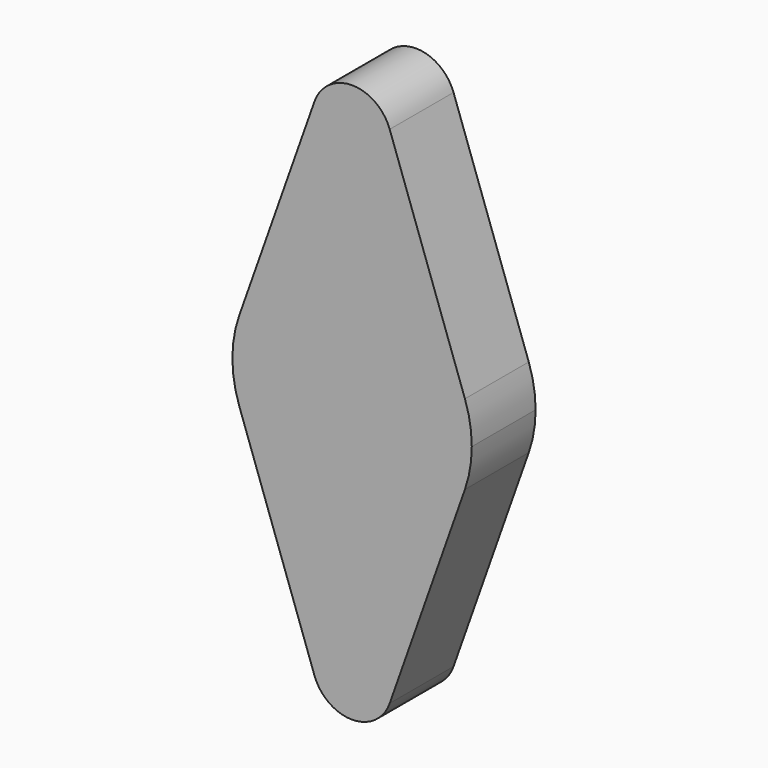
from build123d import *

# Parameters (mm, degrees)
F1_DEPTH = 20
F2_R     = 10
F3_DEPTH = 20


with BuildPart() as f1:
    # F0 (on Front) → F1 (new body)
    with BuildSketch(Plane.XZ):
        with BuildLine():
            ThreePointArc((28.284271, -10), (29.567957, -5.073059), (30, 0))
            ThreePointArc((30, 0), (29.567957, 5.073059), (28.284271, 10))
            ThreePointArc((28.284271, 10), (0, 30), (-28.284271, 10))
            ThreePointArc((-28.284271, 10), (-30, 0), (-28.284271, -10))
            ThreePointArc((-28.284271, -10), (0, -30), (28.284271, -10))
        make_face()
        with BuildLine():
            ThreePointArc((-28.284271, 10), (0, 30), (28.284271, 10))
            Line((28.284271, 10), (9.42809, 63.333333))
            ThreePointArc((9.42809, 63.333333), (9.855986, 61.69102), (10, 60))
            ThreePointArc((10, 60), (-1.69102, 50.144014), (-9.42809, 63.333333))
            Line((-9.42809, 63.333333), (-28.284271, 10))
        make_face()
        with BuildLine():
            Line((9.42809, -63.333333), (28.284271, -10))
            ThreePointArc((28.284271, -10), (0, -30), (-28.284271, -10))
            Line((-28.284271, -10), (-9.42809, -63.333333))
            ThreePointArc((-9.42809, -63.333333), (-1.69102, -50.144014), (10, -60))
            ThreePointArc((10, -60), (9.855986, -61.69102), (9.42809, -63.333333))
        make_face()
        with BuildLine():
            ThreePointArc((10, 60), (9.855986, 61.69102), (9.42809, 63.333333))
            ThreePointArc((9.42809, 63.333333), (0, 70), (-9.42809, 63.333333))
            ThreePointArc((-9.42809, 63.333333), (-1.69102, 50.144014), (10, 60))
        make_face()
        with BuildLine():
            ThreePointArc((-9.42809, -63.333333), (0, -70), (9.42809, -63.333333))
            ThreePointArc((9.42809, -63.333333), (9.855986, -61.69102), (10, -60))
            ThreePointArc((10, -60), (-1.69102, -50.144014), (-9.42809, -63.333333))
        make_face()
    extrude(amount=F1_DEPTH)

    # F2 (on face) → F3 (join)
    with BuildSketch(Plane(origin=(0, 0, 0), x_dir=(-1, 0, 0), z_dir=(0, 1, 0))):
        Circle(F2_R)
    extrude(amount=F3_DEPTH)


solid = f1.part
